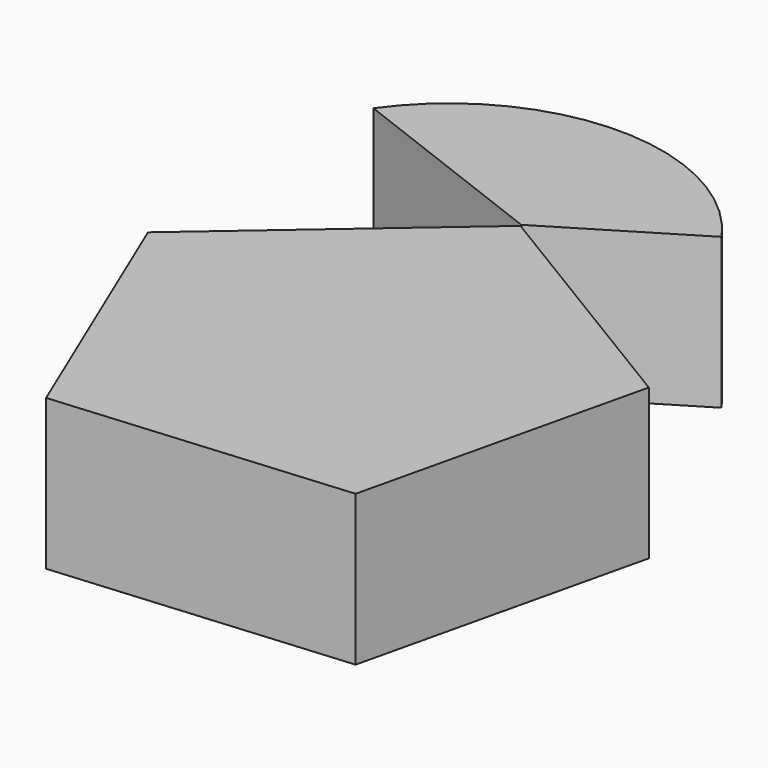
from build123d import *

# Parameters (mm, degrees)
F2_DEPTH = 25.4


with BuildPart() as f2:
    # F0 (on Top) + F1 (on Top) → F2 (new body)
    with BuildSketch(Plane.XY):
        Polygon((-3.496235, 41.652424), (-40.694205, 9.546189), (-21.654166, -35.752554), (27.311194, -31.642483), (38.533413, 16.196424), align=None)
    with BuildSketch(Plane.XY):
        with BuildLine():
            Line((-39.615657, 55.773396), (-3.601424, 41.951716))
            Line((-3.601424, 41.951716), (19.175148, 55.773396))
            ThreePointArc((19.175148, 55.773396), (-10.220255, 70.988699), (-39.615657, 55.773396))
        make_face()
    extrude(amount=F2_DEPTH)


solid = f2.part
